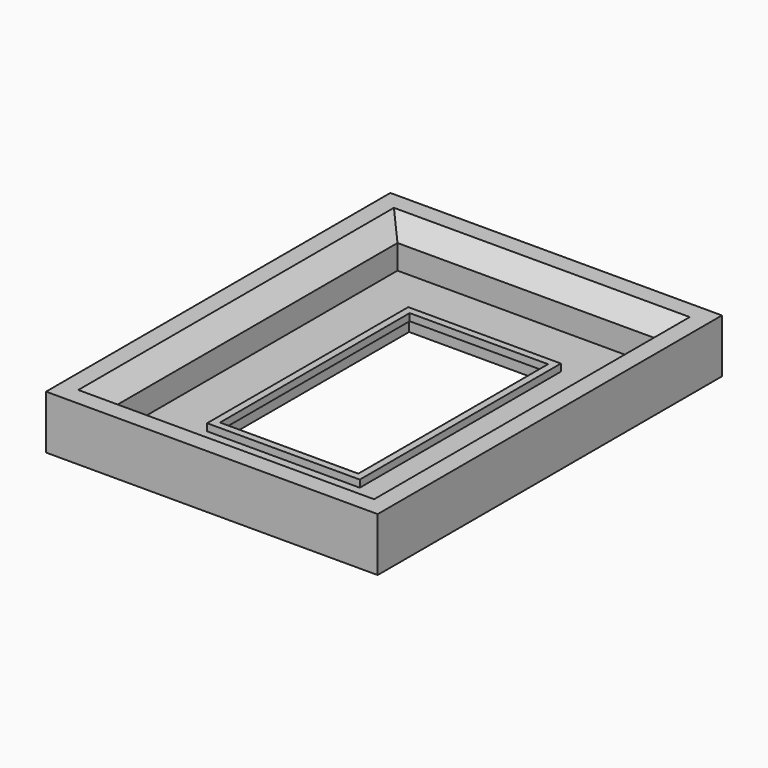
from build123d import *

# Parameters (mm, degrees)
SKETCH_W             = 185.32
SKETCH_H             = 240.5
PAD_DEPTH            = 30
SKETCH003_W          = 145.32
SKETCH003_H          = 200.5
POCKET_DEPTH         = 23.6
SKETCH004_W          = 80.32
SKETCH004_H          = 135.5
POCKET001_DEPTH      = 6.4
POCKET002_DEPTH      = 3
SKETCH006_W          = 14
SKETCH006_H          = 3
POCKET003_DEPTH      = 30
POCKET004_DEPTH      = 1.5
SKETCH008_W          = 12
SKETCH008_H          = 2.4244
POCKET005_DEPTH      = 30
SKETCH009_W          = 85.32
SKETCH009_H          = 140.5
PAD001_DEPTH         = 4
SKETCH010_W          = 77.32
SKETCH010_H          = 132.5
POCKET006_DEPTH      = 0.001
POCKET006_DEPTH_BACK = -30.001
CHAMFER_SIZE         = 10


with BuildPart() as part:
    # Sketch → Pad (new body)
    with BuildSketch(Plane.XY):
        Rectangle(SKETCH_W, SKETCH_H)
    extrude(amount=PAD_DEPTH)

    # Sketch003 → Pocket (cut)
    with BuildSketch(Plane.XY.offset(30)):
        Rectangle(SKETCH003_W, SKETCH003_H)
    extrude(amount=-POCKET_DEPTH, mode=Mode.SUBTRACT)

    # Sketch004 → Pocket001 (cut)
    with BuildSketch(Plane.XY.offset(6.4)):
        Rectangle(SKETCH004_W, SKETCH004_H)
    extrude(amount=-POCKET001_DEPTH, mode=Mode.SUBTRACT)

    # Sketch005 → Pocket002 (cut)
    with BuildSketch(Plane.XY):
        with BuildLine():
            ThreePointArc((-85.97, 0), (-82.985, -2.985), (-80, 0))
            Line((-80, 0), (-80, 18.025988))
            ThreePointArc((-80, 18.025988), (-82.985, 27.495), (-85.97, 18.025988))
            Line((-85.97, 18.025988), (-85.97, 0))
        make_face()
    extrude(amount=POCKET002_DEPTH, mode=Mode.SUBTRACT)

    # Sketch006 → Pocket003 (cut, symmetric)
    with BuildSketch(Plane.XZ):
        with Locations((-83, 4.48)):
            Rectangle(SKETCH006_W, SKETCH006_H)
    extrude(amount=POCKET003_DEPTH, both=True, mode=Mode.SUBTRACT)

    # Sketch007 → Pocket004 (cut, symmetric)
    with BuildSketch(Plane.XY):
        with BuildLine():
            ThreePointArc((0, 110.985), (-2.985, 108), (0, 105.015))
            Line((0, 105.015), (18.705988, 105.015))
            ThreePointArc((18.705988, 105.015), (28.175, 108), (18.705988, 110.985))
            Line((18.705988, 110.985), (0, 110.985))
        make_face()
    extrude(amount=POCKET004_DEPTH, both=True, mode=Mode.SUBTRACT)

    # Sketch008 → Pocket005 (cut, symmetric)
    with BuildSketch(Plane.YZ):
        with Locations((108, 2.7105)):
            Rectangle(SKETCH008_W, SKETCH008_H)
    extrude(amount=POCKET005_DEPTH, both=True, mode=Mode.SUBTRACT)

    # Sketch009 → Pad001 (join)
    with BuildSketch(Plane.XY.offset(6.4)):
        Rectangle(SKETCH009_W, SKETCH009_H)
    extrude(amount=PAD001_DEPTH)

    # Sketch010 → Pocket006 (cut, two sides)
    with BuildSketch(Plane.XY) as pocket006_sk:
        Rectangle(SKETCH010_W, SKETCH010_H)
    extrude(amount=-POCKET006_DEPTH, mode=Mode.SUBTRACT)
    extrude(pocket006_sk.sketch, amount=-POCKET006_DEPTH_BACK, mode=Mode.SUBTRACT)

    # Chamfer
    chamfer_edges = [part.edges().sort_by_distance(p)[0] for p in [
        (-72.66, 0, 30),
        (0, 100.25, 30),
        (72.66, 0, 30),
        (0, -100.25, 30),
    ]]
    chamfer(chamfer_edges, length=CHAMFER_SIZE)


solid = part.part
